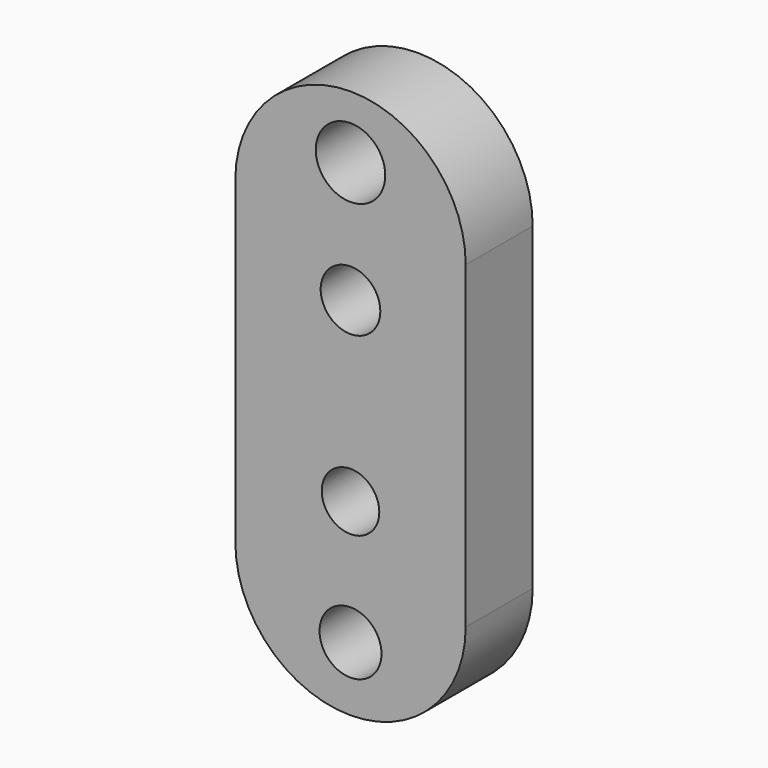
from build123d import *

# Parameters (mm, degrees)
F0_R     = 9.398819
F0_R_2   = 10.541009
F0_R_3   = 8.729793
F0_R_4   = 9.045049
F1_DEPTH = 25.4


with BuildPart() as f1:
    # F0 (on Front) → F1 (new body)
    with BuildSketch(Plane.XZ):
        with BuildLine():
            ThreePointArc((2.202109, 53.437874), (-32.738037, 88.37802), (-67.678183, 53.437874))
            Line((-67.678183, 53.437874), (-67.678183, -43.313432))
            ThreePointArc((-67.678183, -43.313432), (-32.738037, -78.253578), (2.202109, -43.313432))
            Line((2.202109, -43.313432), (2.202109, 53.437874))
        make_face()
        with Locations((-32.738037, -58.787096)):
            Circle(F0_R, mode=Mode.SUBTRACT)
        with BuildLine():
            Line((-48.006002, -33.17846), (-48.006002, 38.169909))
            ThreePointArc((-48.006002, 38.169909), (-32.738037, 53.437874), (-17.470073, 38.169909))
            Line((-17.470073, 38.169909), (-17.470073, -33.17846))
            ThreePointArc((-17.470073, -33.17846), (-32.738037, -43.313432), (-48.006002, -33.17846))
        make_face(mode=Mode.SUBTRACT)
        with Locations((-32.738037, 69.357805)):
            Circle(F0_R_2, mode=Mode.SUBTRACT)
        with BuildLine():
            ThreePointArc((-17.470073, 38.169909), (-32.738037, 53.437874), (-48.006002, 38.169909))
            Line((-48.006002, 38.169909), (-48.006002, -33.17846))
            ThreePointArc((-48.006002, -33.17846), (-32.738037, -43.313432), (-17.470073, -33.17846))
            Line((-17.470073, -33.17846), (-17.470073, 38.169909))
        make_face()
        with Locations((-32.738037, -21.140257)):
            Circle(F0_R_3, mode=Mode.SUBTRACT)
        with Locations((-32.738037, 32.591231)):
            Circle(F0_R_4, mode=Mode.SUBTRACT)
    extrude(amount=F1_DEPTH)


solid = f1.part
